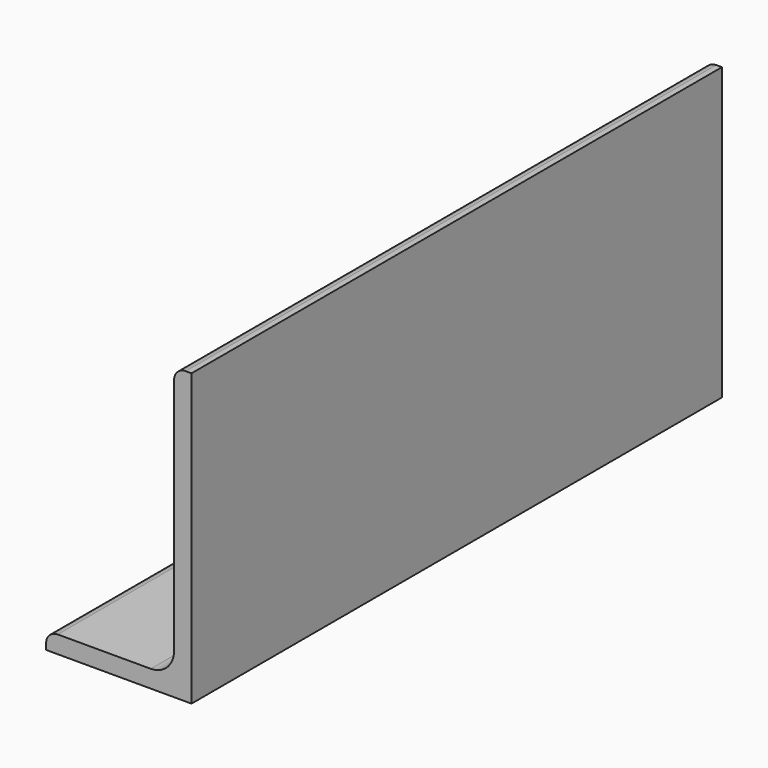
from build123d import *

# Parameters (mm, degrees)
F1_DEPTH = 228


with BuildPart() as f1:
    # F0 (on Front) → F1 (new body)
    with BuildSketch(Plane.XZ):
        with BuildLine():
            Line((0, 2), (0, 0))
            Line((0, 0), (50, 0))
            Line((50, 0), (50, 100))
            Line((50, 100), (48, 100))
            ThreePointArc((48, 100), (45.171573, 98.828427), (44, 96))
            Line((44, 96), (44, 14))
            ThreePointArc((44, 14), (41.656854, 8.343146), (36, 6))
            Line((36, 6), (4, 6))
            ThreePointArc((4, 6), (1.171573, 4.828427), (0, 2))
        make_face()
    extrude(amount=F1_DEPTH)


solid = f1.part
